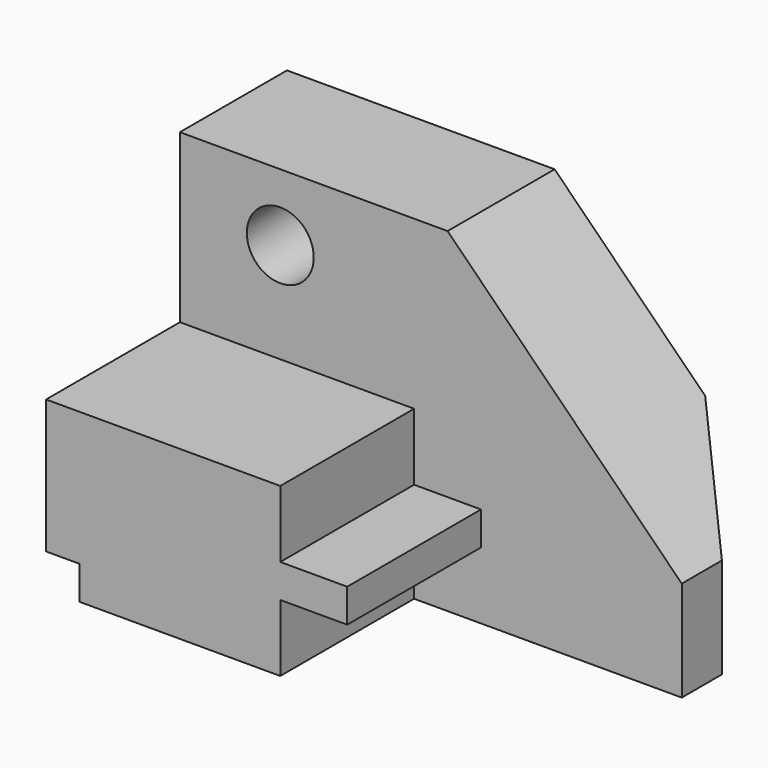
from build123d import *

# Parameters (mm, degrees)
F0_W     = 95.25
F0_H     = 63.5
F1_DEPTH = 25.4
F3_DEPTH = 25.401
F5_DEPTH = 63.501
F6_R     = 6.35
F7_DEPTH = 25.401
F9_DEPTH = 31.75


with BuildPart() as f1:
    # F0 (on Front) → F1 (new body)
    with BuildSketch(Plane.XZ):
        with Locations((47.625, 31.75)):
            Rectangle(F0_W, F0_H)
    extrude(amount=F1_DEPTH)

    # F2 (on face) → F3 (cut, through all)
    with BuildSketch(Plane.XZ.offset(25.4)):
        Polygon((95.25, 63.5), (50.8, 63.5), (95.25, 19.05), align=None)
    extrude(amount=-F3_DEPTH, mode=Mode.SUBTRACT)

    # F4 (on face) → F5 (cut, through all)
    with BuildSketch(Plane(origin=(0, 0, 0), x_dir=(1, 0, 0), z_dir=(0, 0, -1))):
        Polygon((95.25, 0), (95.25, 15.875), (79.375, 0), align=None)
    extrude(amount=-F5_DEPTH, mode=Mode.SUBTRACT)

    # F6 (on face) → F7 (cut, through all)
    with BuildSketch(Plane.XZ.offset(25.4)):
        with Locations((19.05, 50.8)):
            Circle(F6_R)
    extrude(amount=-F7_DEPTH, mode=Mode.SUBTRACT)

    # F8 (on face) → F9 (join)
    with BuildSketch(Plane.XZ.offset(25.4)):
        Polygon((0, 31.75), (0, 6.35), (6.35, 6.35), (6.35, 0), (44.45, 0), (44.45, 12.7), (57.15, 12.7), (57.15, 19.05), (44.45, 19.05), (44.45, 31.75), align=None)
    extrude(amount=F9_DEPTH)


solid = f1.part
